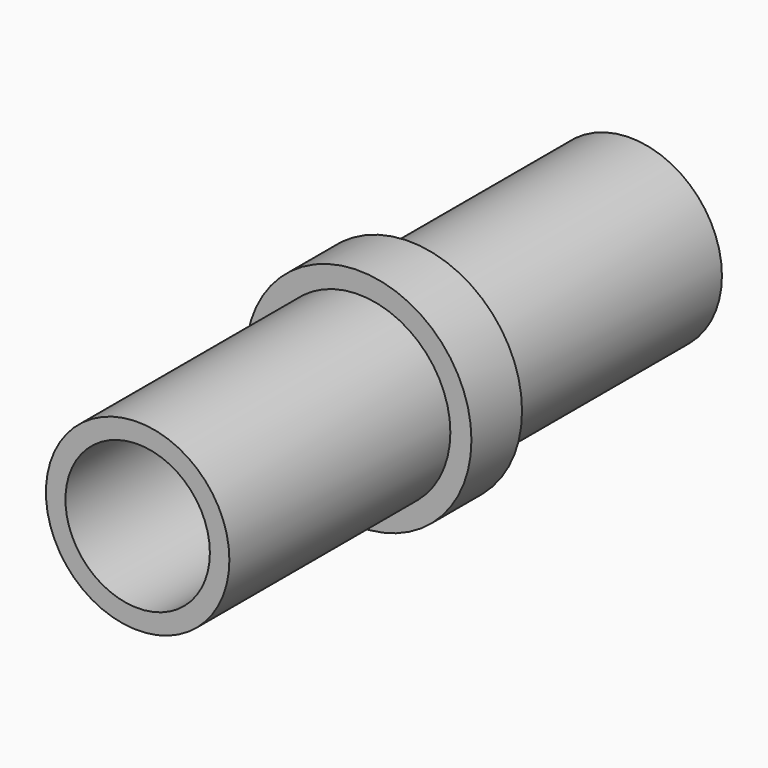
from build123d import *

# Parameters (mm, degrees)
F0_R     = 2.89
F0_R_2   = 2.35
F1_DEPTH = 0.81
F0_R_3   = 1.85
F2_DEPTH = 7.885
F3_DEPTH = 0.05


with BuildPart() as f1:
    # F0 (on Front) → F1 (new body, symmetric)
    with BuildSketch(Plane.XZ):
        Circle(F0_R)
        Circle(F0_R_2, mode=Mode.SUBTRACT)
    extrude(amount=F1_DEPTH, both=True)

    # F0 (on Front) → F2 (join, symmetric)
    with BuildSketch(Plane.XZ):
        Circle(F0_R_2)
        Circle(F0_R_3, mode=Mode.SUBTRACT)
    extrude(amount=F2_DEPTH, both=True)

    # F0 (on Front) → F3 (join, symmetric)
    with BuildSketch(Plane.XZ):
        Circle(F0_R_3)
    extrude(amount=F3_DEPTH, both=True)


solid = f1.part
